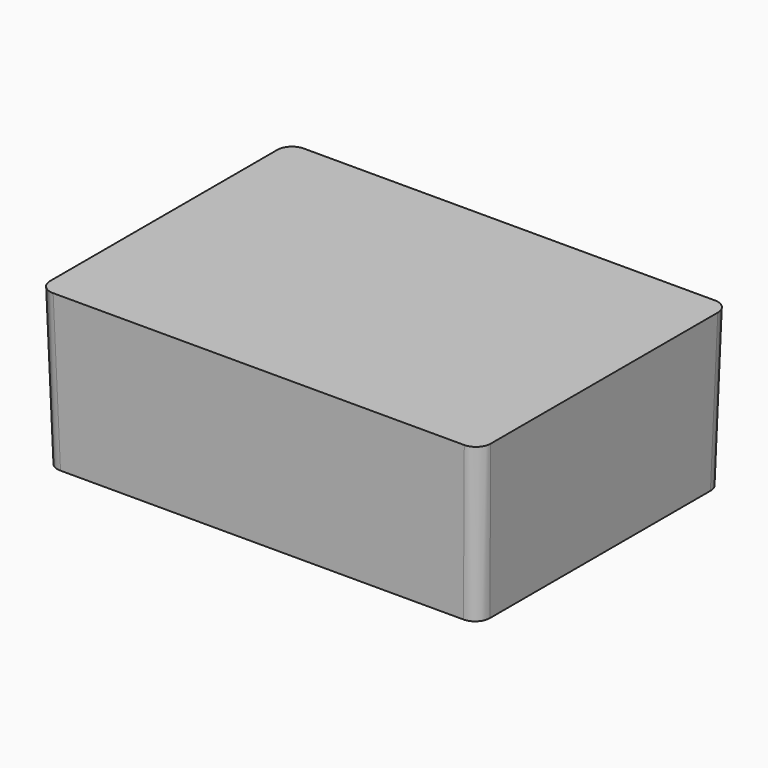
from build123d import *

# Parameters (mm, degrees)
F0_W     = 450
F0_H     = 320
F1_DEPTH = 160
F1_TAPER = 1.5
F2_R     = 15


with BuildPart() as f1:
    # F0 (on Top) → F1 (new body)
    with BuildSketch(Plane.XY):
        Rectangle(F0_W, F0_H)
    extrude(amount=-F1_DEPTH, taper=F1_TAPER)

    # F2
    f2_edges = [f1.edges().sort_by_distance(p)[0] for p in [
        (-222.905126, 157.905126, -80),
        (-222.905126, -157.905126, -80),
        (222.905126, -157.905126, -80),
        (222.905126, 157.905126, -80),
    ]]
    fillet(f2_edges, radius=F2_R)


solid = f1.part
